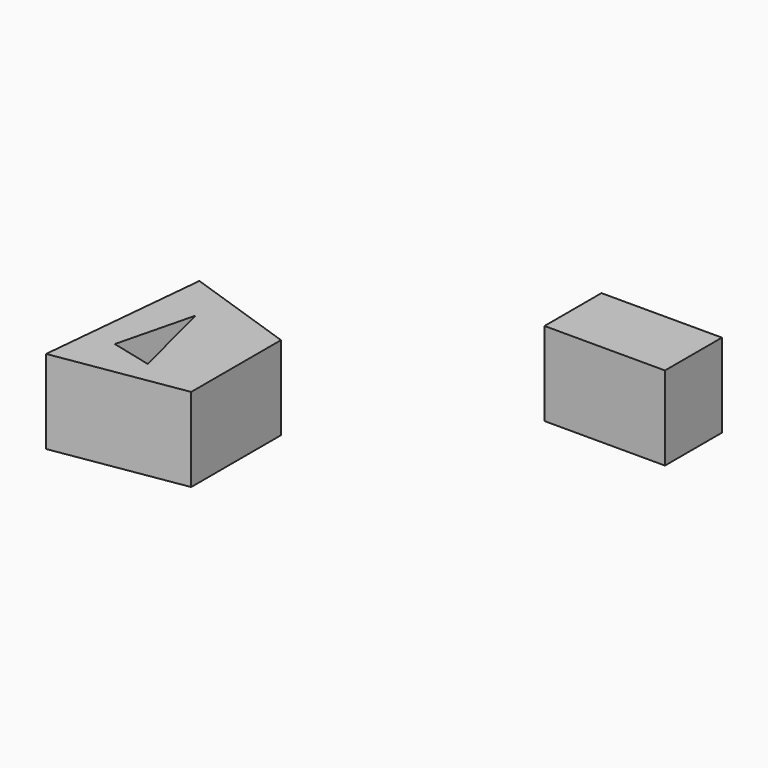
from build123d import *

# Parameters (mm, degrees)
F1_DEPTH = 25.4
F0_W     = 36.537992
F0_H     = 21.590633
F2_DEPTH = 25.4


with BuildPart() as f1:
    # F0 (on Top) → F1 (new body)
    with BuildSketch(Plane.XY):
        Polygon((-20.952431, -29.079724), (-54.999199, -17.453996), (-59.981655, -69.354557), (-20.952431, -63.12649), align=None)
        Polygon((-50.431952, -55.237599), (-44.619087, -31.986151), (-37.92697, -58.363846), align=None, mode=Mode.SUBTRACT)
    extrude(amount=F1_DEPTH)


with BuildPart() as f2:
    # F0 (on Top) → F2 (new body)
    with BuildSketch(Plane.XY):
        with Locations((41.520446, 26.365479)):
            Rectangle(F0_W, F0_H)
    extrude(amount=F2_DEPTH)


solid = Compound([f1.part, f2.part])
